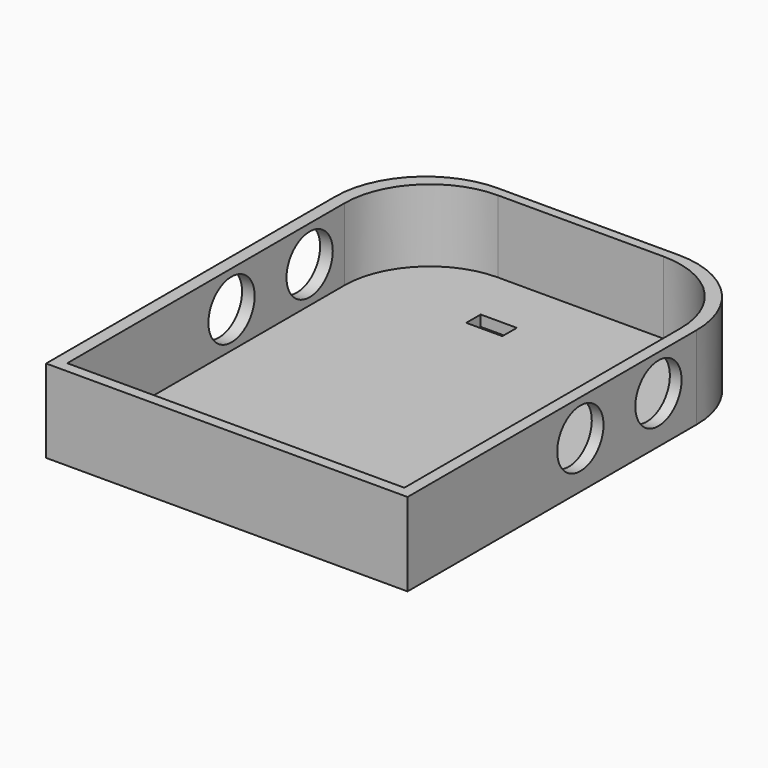
from build123d import *

# Parameters (mm, degrees)
BOX008_W        = 10
BOX008_H        = 5
BOX008_DEPTH    = 10
PAD_DEPTH       = 23
POCKET_DEPTH    = 20
SKETCH002_R     = 8
POCKET001_DEPTH = 100.001


with BuildPart() as cube008:
    # Box008 → Box008 (new body)
    with BuildSketch(Plane(origin=(-15, 40, -4), x_dir=(1, 0, 0), z_dir=(0, 0, 1))):
        with Locations((5, 2.5)):
            Rectangle(BOX008_W, BOX008_H)
    extrude(amount=BOX008_DEPTH)


with BuildPart() as cut012:
    # Sketch → Pad (new body)
    with BuildSketch(Plane.XY):
        with BuildLine():
            Line((-50, 38.45712), (-50, -61.54288))
            Line((-50, -61.54288), (50, -61.54288))
            Line((50, -61.54288), (50, 38.45712))
            ThreePointArc((50, 38.45712), (42.67767, 56.13479), (25, 63.45712))
            Line((25, 63.45712), (-25, 63.45712))
            ThreePointArc((-25, 63.45712), (-42.67767, 56.13479), (-50, 38.45712))
        make_face()
    extrude(amount=PAD_DEPTH)

    # Sketch001 → Pocket (cut)
    with BuildSketch(Plane.XY.offset(23)):
        with BuildLine():
            Line((-46.504223, 37.299377), (-46.504223, -58.589802))
            Line((-46.504223, -58.589802), (46.756358, -58.589802))
            Line((46.756358, -58.589802), (46.756358, 36.931984))
            ThreePointArc((46.756358, 36.931984), (39.747359, 53.853203), (22.82614, 60.862202))
            Line((22.82614, 60.862202), (-22.941398, 60.862202))
            ThreePointArc((-22.941398, 60.862202), (-39.602831, 53.96081), (-46.504223, 37.299377))
        make_face()
    extrude(amount=-POCKET_DEPTH, mode=Mode.SUBTRACT)

    # Sketch002 → Pocket001 (cut, through all)
    with BuildSketch(Plane.YZ.offset(50)):
        with Locations((-1.771652, 13)):
            Circle(SKETCH002_R)
        with Locations((25.228348, 13)):
            Circle(SKETCH002_R)
    extrude(amount=-POCKET001_DEPTH, mode=Mode.SUBTRACT)

    # Cut012: cut Cube008
    add(cube008.part, mode=Mode.SUBTRACT)


solid = cut012.part
